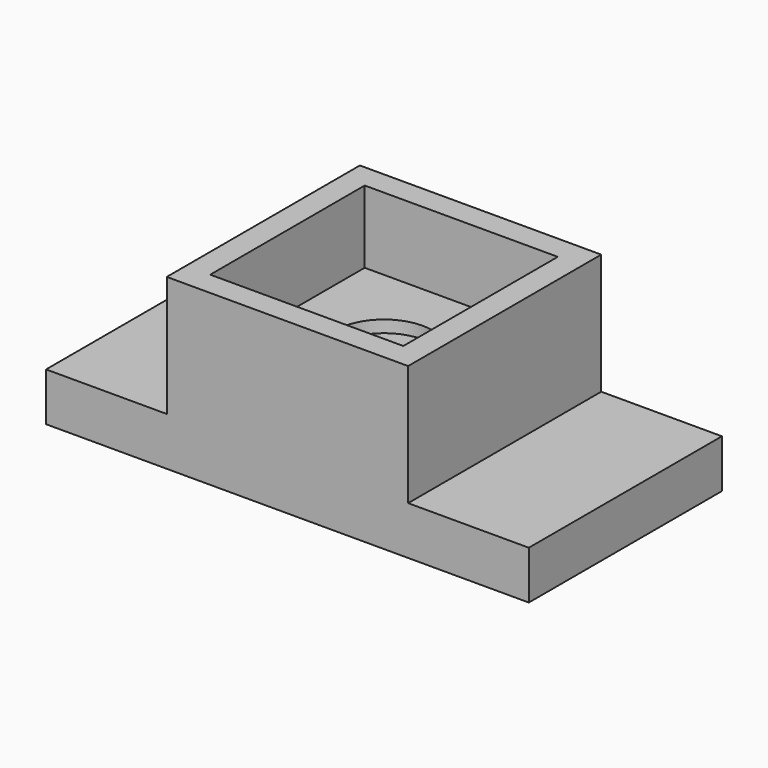
from build123d import *

# Parameters (mm, degrees)
F1_DEPTH = 500
F2_W     = 400
F2_H     = 400
F3_DEPTH = 150
F4_R     = 100
F4_R_2   = 50
F5_DEPTH = 25
F6_DEPTH = 200


with BuildPart() as f1:
    # F0 (on Front) → F1 (new body)
    with BuildSketch(Plane.XZ):
        Polygon((-1000, 0), (0, 0), (0, 100), (-250, 100), (-250, 350), (-750, 350), (-750, 100), (-1000, 100), align=None)
    extrude(amount=F1_DEPTH)

    # F2 (on face) → F3 (cut)
    with BuildSketch(Plane.XY.offset(350)):
        with Locations((-500, -250)):
            Rectangle(F2_W, F2_H)
    extrude(amount=-F3_DEPTH, mode=Mode.SUBTRACT)

    # F4 (on face) → F5 (cut)
    with BuildSketch(Plane.XY.offset(200)):
        with Locations((-500, -250)):
            Circle(F4_R)
        with Locations((-500, -250)):
            Circle(F4_R_2, mode=Mode.SUBTRACT)
    extrude(amount=-F5_DEPTH, mode=Mode.SUBTRACT)

    # F4 (on face) → F6 (cut)
    with BuildSketch(Plane.XY.offset(200)):
        with Locations((-500, -250)):
            Circle(F4_R_2)
    extrude(amount=-F6_DEPTH, mode=Mode.SUBTRACT)


solid = f1.part
